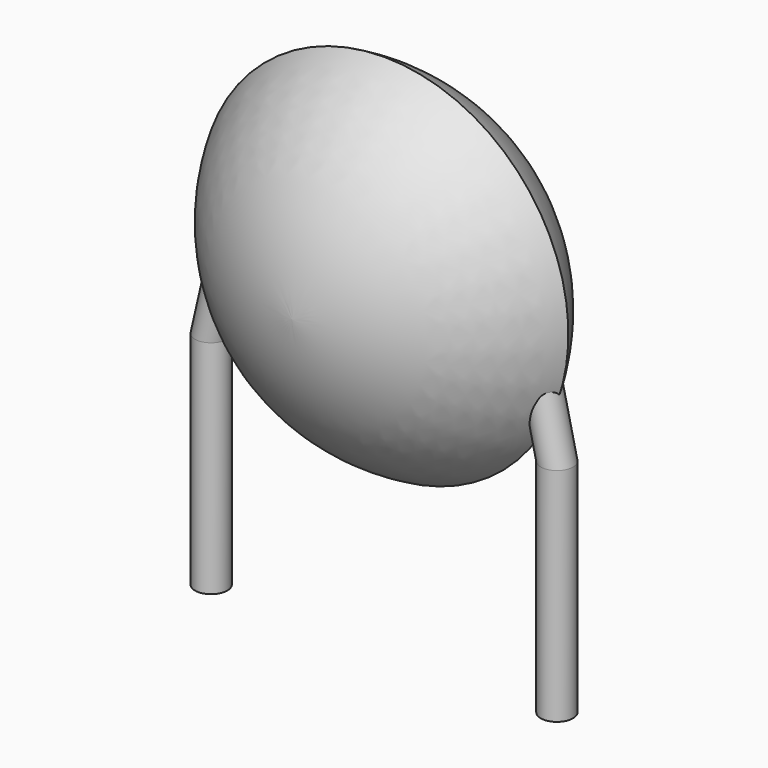
from build123d import *

# Parameters (mm, degrees)
SKETCH001_R       = 0.35
PAD001_DEPTH      = 1.6
PAD001_DEPTH_BACK = 3.2
SKETCH002_R       = 0.35
SKETCH003_R       = 0.35
SKETCH004_R       = 0.35
SKETCH005_R       = 0.35


with BuildPart() as pad001:
    # Sketch001 → Pad001 (new body, two sides)
    with BuildSketch(Plane.XY) as pad001_sk:
        Circle(SKETCH001_R)
        with Locations((7.5, 0)):
            Circle(SKETCH001_R)
    extrude(amount=PAD001_DEPTH)
    extrude(pad001_sk.sketch, amount=-PAD001_DEPTH_BACK)


with BuildPart() as revolution:
    # Sketch → Revolution (revolve)
    with BuildSketch(Plane.YZ.offset(3.75)):
        with BuildLine():
            Line((-2.5, 4.1), (2.5, 4.1))
            ThreePointArc((0, 0.1), (1.786986, 1.764384), (2.5, 4.1))
            ThreePointArc((-2.5, 4.1), (-1.786986, 1.764384), (0, 0.1))
        make_face()
    revolve(axis=Axis((3.75, -3.32079, 4.1), (0, 1, 0)))


with BuildPart() as loft_body:
    # Sketch002 → Loft section 0
    with BuildSketch(Plane.XY.offset(4)):
        with Locations((0.55, 0)):
            Circle(SKETCH002_R)
    # Sketch003 → Loft section 1
    with BuildSketch(Plane.XY.offset(1.6)):
        Circle(SKETCH003_R)
    loft()


with BuildPart() as loft001:
    # Sketch004 → Loft001 section 0
    with BuildSketch(Plane.XY.offset(1.6)):
        with Locations((7.5, 0)):
            Circle(SKETCH004_R)
    # Sketch005 → Loft001 section 1
    with BuildSketch(Plane.XY.offset(4)):
        with Locations((6.95, 0)):
            Circle(SKETCH005_R)
    loft()


solid = Compound([pad001.part, revolution.part, loft_body.part, loft001.part])
